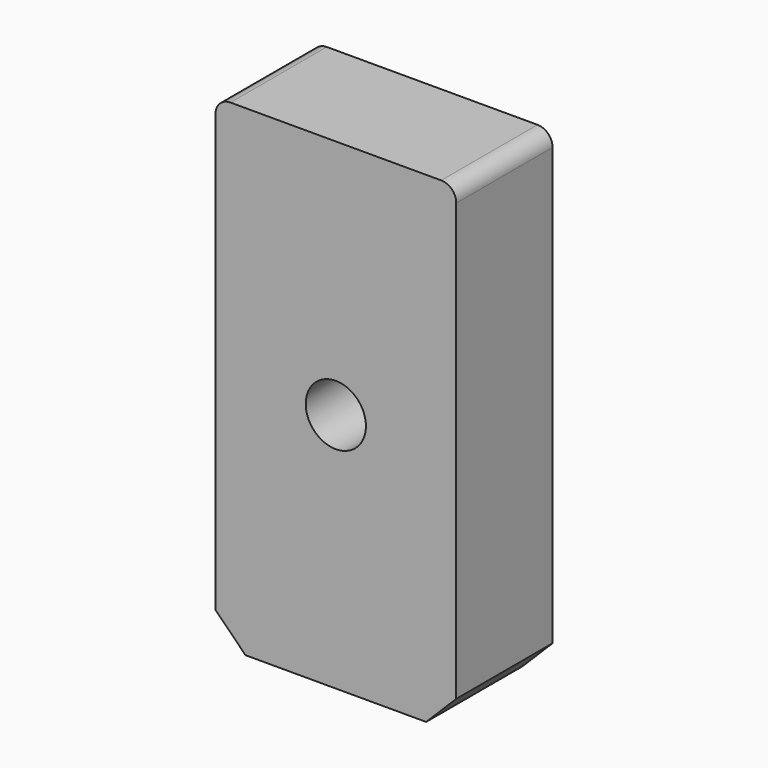
from build123d import *

# Parameters (mm, degrees)
F0_W     = 400
F0_H     = 800
F1_DEPTH = 200
F2_R     = 50
F3_DEPTH = 250
F4_SIZE  = 50
F5_SIZE  = 50
F6_R     = 25
F7_R     = 25


with BuildPart() as f1:
    # F0 (on Front) → F1 (new body)
    with BuildSketch(Plane.XZ):
        Rectangle(F0_W, F0_H)
    extrude(amount=F1_DEPTH)

    # F2 (on Front) → F3 (cut)
    with BuildSketch(Plane.XZ):
        Circle(F2_R)
    extrude(amount=F3_DEPTH, mode=Mode.SUBTRACT)

    # F4
    f4_edges = [f1.edges().sort_by_distance(p)[0] for p in [
        (-200, -100, -400),
    ]]
    chamfer(f4_edges, length=F4_SIZE)

    # F5
    f5_edges = [f1.edges().sort_by_distance(p)[0] for p in [
        (200, -100, -400),
    ]]
    chamfer(f5_edges, length=F5_SIZE)

    # F6
    f6_edges = [f1.edges().sort_by_distance(p)[0] for p in [
        (200, -100, 400),
    ]]
    fillet(f6_edges, radius=F6_R)

    # F7
    f7_edges = [f1.edges().sort_by_distance(p)[0] for p in [
        (-200, -100, 400),
    ]]
    fillet(f7_edges, radius=F7_R)


solid = f1.part
